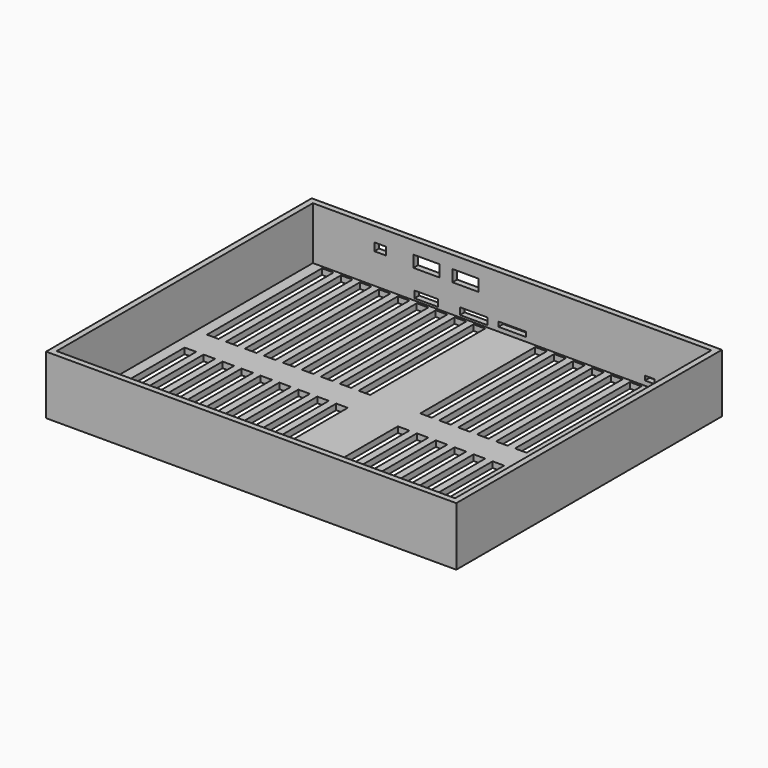
from build123d import *

# Parameters (mm, degrees)
F0_W     = 210
F0_H     = 170
F1_DEPTH = 30
F2_T     = -3
F3_W     = 12
F3_H     = 3.5
F3_W_2   = 14
F3_H_2   = 2.4
F3_W_3   = 5
F3_H_3   = 2.2
F3_W_4   = 13.34
F3_H_4   = 6
F3_W_5   = 6
F3_H_5   = 4
F4_DEPTH = 25
F5_W     = 5.91059
F5_H     = 73.586922
F6_DEPTH = 25


with BuildPart() as f1:
    # F0 (on Top) → F1 (new body)
    with BuildSketch(Plane.XY):
        Rectangle(F0_W, F0_H)
    extrude(amount=F1_DEPTH)

    # F2
    f2_openings = [f1.faces().sort_by_distance(p)[0] for p in [
        (0, 0, 30),
    ]]
    offset(amount=F2_T, openings=f2_openings)

    # F3 (on face) → F4 (cut)
    with BuildSketch(Plane(origin=(0, 85, 0), x_dir=(-1, 0, 0), z_dir=(0, 1, 0))):
        with Locations((44, 5.812878)):
            Rectangle(F3_W, F3_H)
        with Locations((19.7, 5.812878)):
            Rectangle(F3_W_2, F3_H)
        with Locations((0, 6.362878)):
            Rectangle(F3_W_2, F3_H_2)
        with Locations((-70.5, 6.462878)):
            Rectangle(F3_W_3, F3_H_3)
        with Locations((43.881843, 20.562878)):
            Rectangle(F3_W_4, F3_H_4)
        with Locations((23.881843, 20.562878)):
            Rectangle(F3_W_4, F3_H_4)
        with Locations((67.530297, 20.562878)):
            Rectangle(F3_W_5, F3_H_5)
    extrude(amount=-F4_DEPTH, mode=Mode.SUBTRACT)

    # F5 (on face) → F6 (cut)
    with BuildSketch(Plane(origin=(0, 0, 0), x_dir=(1, 0, 0), z_dir=(0, 0, -1))):
        with Locations((-93.378186, 43.943266)):
            Rectangle(F5_W, F5_H)
        with Locations((-93.378186, -43.943266)):
            Rectangle(F5_W, F5_H)
        with Locations((-83.678186, 43.943266)):
            Rectangle(F5_W, F5_H)
        with Locations((-83.678186, -43.943266)):
            Rectangle(F5_W, F5_H)
        with Locations((-73.978186, 43.943266)):
            Rectangle(F5_W, F5_H)
        with Locations((-73.978186, -43.943266)):
            Rectangle(F5_W, F5_H)
        with Locations((-64.278186, 43.943266)):
            Rectangle(F5_W, F5_H)
        with Locations((-64.278186, -43.943266)):
            Rectangle(F5_W, F5_H)
        with Locations((-54.578186, 43.943266)):
            Rectangle(F5_W, F5_H)
        with Locations((-54.578186, -43.943266)):
            Rectangle(F5_W, F5_H)
        with Locations((-44.878186, 43.943266)):
            Rectangle(F5_W, F5_H)
        with Locations((-44.878186, -43.943266)):
            Rectangle(F5_W, F5_H)
        with Locations((-35.178186, 43.943266)):
            Rectangle(F5_W, F5_H)
        with Locations((-35.178186, -43.943266)):
            Rectangle(F5_W, F5_H)
        with Locations((-25.478186, 43.943266)):
            Rectangle(F5_W, F5_H)
        with Locations((-25.478186, -43.943266)):
            Rectangle(F5_W, F5_H)
        with Locations((-15.778186, 43.943266)):
            Rectangle(F5_W, F5_H)
        with Locations((-15.778186, -43.943266)):
            Rectangle(F5_W, F5_H)
        with Locations((93.378186, 43.943266)):
            Rectangle(F5_W, F5_H)
        with Locations((83.678186, 43.943266)):
            Rectangle(F5_W, F5_H)
        with Locations((73.978186, 43.943266)):
            Rectangle(F5_W, F5_H)
        with Locations((64.278186, 43.943266)):
            Rectangle(F5_W, F5_H)
        with Locations((54.578186, 43.943266)):
            Rectangle(F5_W, F5_H)
        with Locations((44.878186, 43.943266)):
            Rectangle(F5_W, F5_H)
        with Locations((35.178186, 43.943266)):
            Rectangle(F5_W, F5_H)
        with Locations((25.478186, 43.943266)):
            Rectangle(F5_W, F5_H)
        with Locations((15.778186, 43.943266)):
            Rectangle(F5_W, F5_H)
        with Locations((93.378186, -43.943266)):
            Rectangle(F5_W, F5_H)
        with Locations((83.678186, -43.943266)):
            Rectangle(F5_W, F5_H)
        with Locations((73.978186, -43.943266)):
            Rectangle(F5_W, F5_H)
        with Locations((64.278186, -43.943266)):
            Rectangle(F5_W, F5_H)
        with Locations((54.578186, -43.943266)):
            Rectangle(F5_W, F5_H)
        with Locations((44.878186, -43.943266)):
            Rectangle(F5_W, F5_H)
        with Locations((35.178186, -43.943266)):
            Rectangle(F5_W, F5_H)
        with Locations((25.478186, -43.943266)):
            Rectangle(F5_W, F5_H)
        with Locations((15.778186, -43.943266)):
            Rectangle(F5_W, F5_H)
    extrude(amount=-F6_DEPTH, mode=Mode.SUBTRACT)


solid = f1.part
